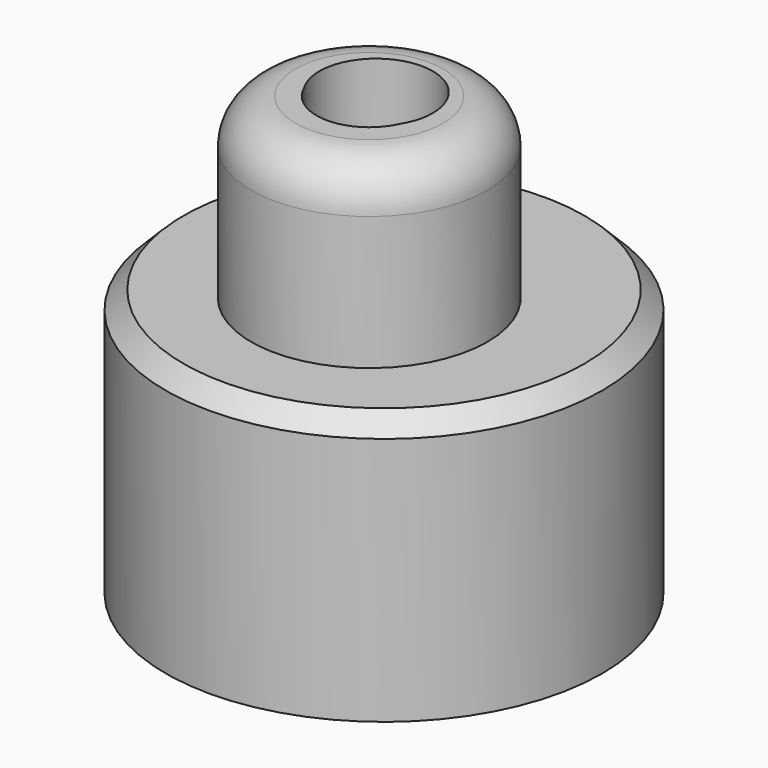
from build123d import *

# Parameters (mm, degrees)
F0_R      = 62.329716
F1_DEPTH  = 76.2
F2_R      = 33.756685
F3_DEPTH  = 50.8
F4_R      = 15.053655
F5_DEPTH  = 25.4
F6_R      = 16.209202
F7_DEPTH  = 25.4
F7_FACE_R = 16.209202
F8_DEPTH  = 254
F9_R      = 12.7
F10_SIZE  = 5.08


with BuildPart() as f1:
    # F0 (on Top) → F1 (new body)
    with BuildSketch(Plane.XY):
        with Locations((0, 5.263878)):
            Circle(F0_R)
    extrude(amount=F1_DEPTH)

    # F2 (on face) → F3 (join)
    with BuildSketch(Plane.XY.offset(76.2)):
        Circle(F2_R)
    extrude(amount=F3_DEPTH)

    # F4 (on face) → F5 (cut)
    with BuildSketch(Plane.XY.offset(127)):
        Circle(F4_R)
    extrude(amount=-F5_DEPTH, mode=Mode.SUBTRACT)

    # F6 (on face) → F7 (cut)
    with BuildSketch(Plane(origin=(0, 0, 0), x_dir=(1, 0, 0), z_dir=(0, 0, -1))):
        with Locations((0, -2.447213)):
            Circle(F6_R)
    extrude(amount=-F7_DEPTH, mode=Mode.SUBTRACT)

    # F7_face (on face) → F8 (cut)
    with BuildSketch(Plane(origin=(0, 2.447213, 25.4), x_dir=(1, 0, 0), z_dir=(0, 0, -1))):
        Circle(F7_FACE_R)
    extrude(amount=-F8_DEPTH, mode=Mode.SUBTRACT)

    # F9
    f9_edges = [f1.edges().sort_by_distance(p)[0] for p in [
        (-33.756685, 0, 127),
    ]]
    fillet(f9_edges, radius=F9_R)

    # F10
    f10_edges = [f1.edges().sort_by_distance(p)[0] for p in [
        (-62.329716, 5.263878, 76.2),
    ]]
    chamfer(f10_edges, length=F10_SIZE)


solid = f1.part
